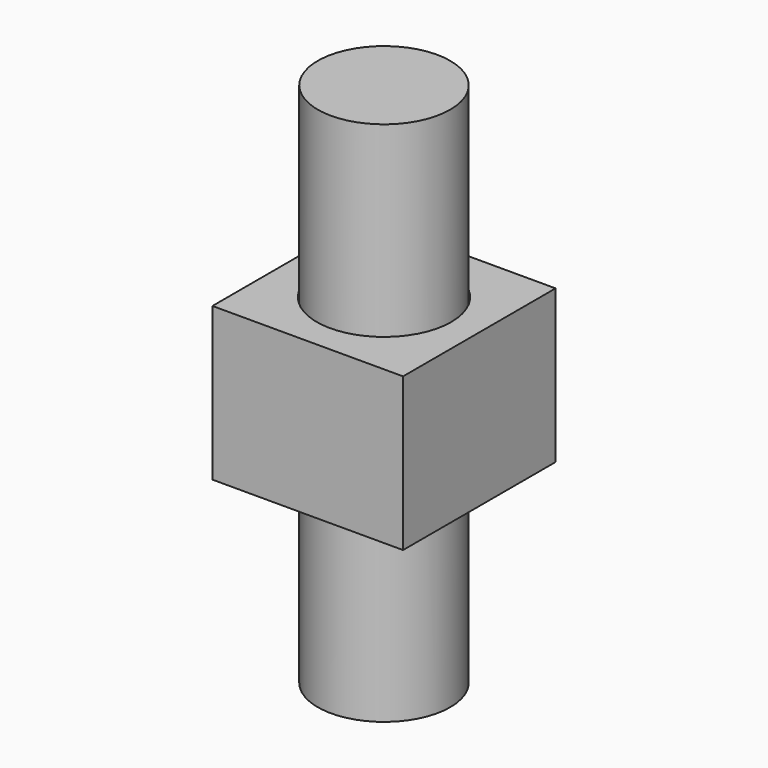
from build123d import *

# Parameters (mm, degrees)
F0_W     = 31.658634
F0_H     = 31.658634
F0_R     = 11.176355
F1_DEPTH = 12.7
F2_R     = 10.997043
F3_DEPTH = 43.688


with BuildPart() as f1:
    # F0 (on Top) → F1 (new body, symmetric)
    with BuildSketch(Plane.XY):
        Rectangle(F0_W, F0_H)
        Circle(F0_R, mode=Mode.SUBTRACT)
    extrude(amount=F1_DEPTH, both=True)


with BuildPart() as f3:
    # F2 (on Top) → F3 (new body, symmetric)
    with BuildSketch(Plane.XY):
        Circle(F2_R)
    extrude(amount=F3_DEPTH, both=True)


solid = Compound([f1.part, f3.part])
